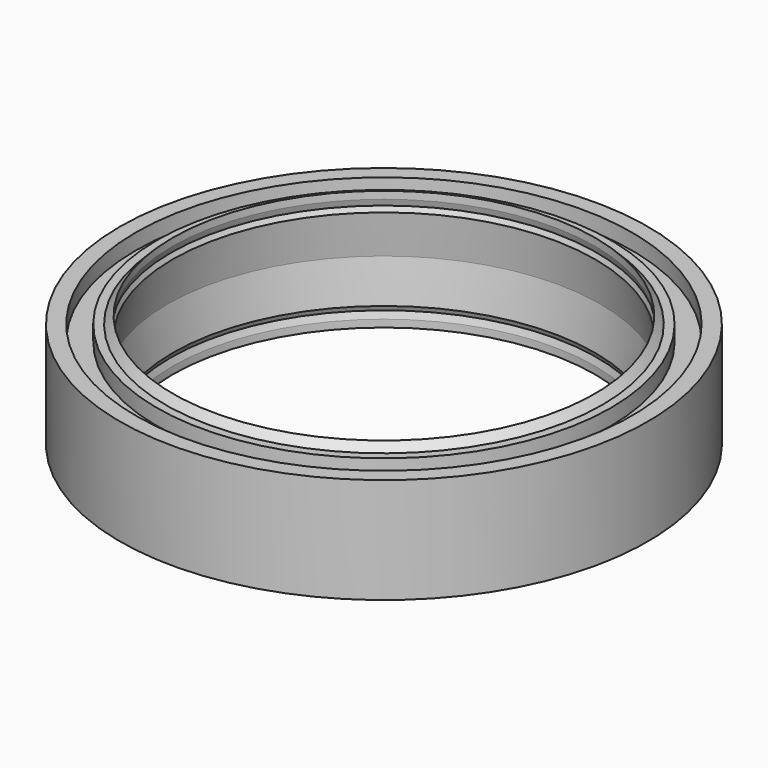
from build123d import *


with BuildPart() as f1:
    # F0 (on Front) → F1 (revolve)
    with BuildSketch(Plane.XZ):
        Polygon((-25, 10), (-25, 0), (-23.5, 0), (-23.5, 1.5), (-21.5, 1.5), (-21.5, 0), (-20.7, 0), (-20, -0.7), (-20, 0), (-20.2, 0.631316), (-20, 1.1), (-20.5, 5), (-20, 8.9), (-20.2, 9.368684), (-20, 10), (-20, 10.7), (-20.7, 10), (-21.5, 10), (-21.5, 8.5), (-23.5, 8.5), (-23.5, 10), align=None)
    revolve(axis=Axis((0, 0, 18.511054), (0, 0, 1)))


solid = f1.part
